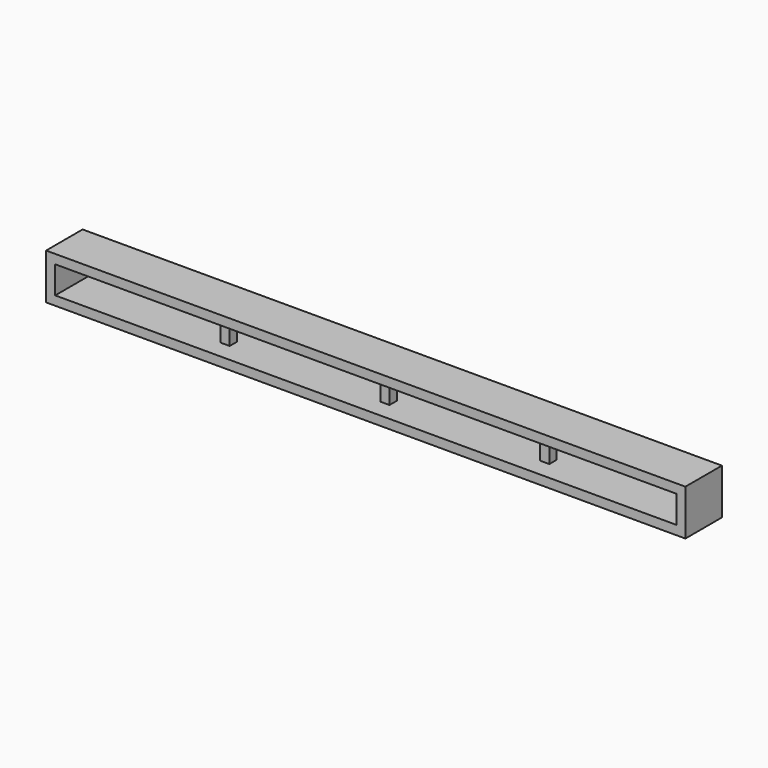
from build123d import *

# Parameters (mm, degrees)
F0_W     = 12.7
F0_H     = 2.54
F3_W     = 2.54
F3_H     = 2.54
F4_DEPTH = 12.7


with BuildPart() as f2:
    # F2: sweep along a path in F1
    with BuildLine(Plane.XZ) as f2_path:
        Line((0, 0), (177.8, 0))
        Line((177.8, 0), (177.8, -12.7))
        Line((177.8, -12.7), (0, -12.7))
        Line((0, -12.7), (0, 0))
    # F0 (on Right) → F2 (sweep)
    with BuildSketch(Plane.YZ):
        with Locations((6.35, -1.27)):
            Rectangle(F0_W, F0_H)
    sweep(path=f2_path.line, transition=Transition.RIGHT)

    # F3 (on face) → F4 (join)
    with BuildSketch(Plane.XY):
        with Locations((45.72, 6.35)):
            Rectangle(F3_W, F3_H)
        with Locations((90.17, 6.35)):
            Rectangle(F3_W, F3_H)
        with Locations((134.62, 6.35)):
            Rectangle(F3_W, F3_H)
    extrude(amount=-F4_DEPTH)


solid = f2.part
